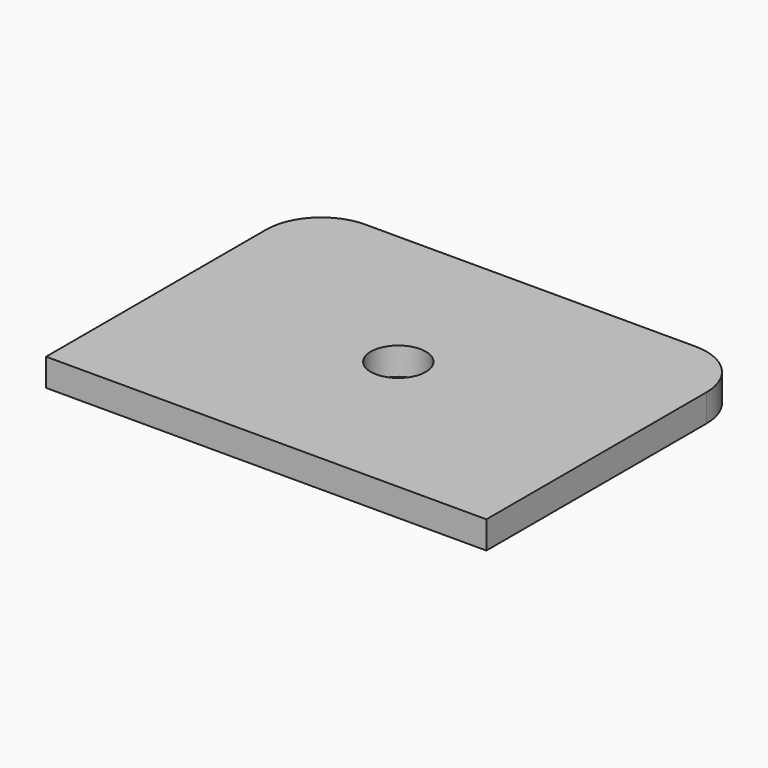
from build123d import *

# Parameters (mm, degrees)
F0_R     = 3.175
F1_DEPTH = 3.175


with BuildPart() as f1:
    # F0 (on Top) → F1 (new body)
    with BuildSketch(Plane.XY):
        with BuildLine():
            ThreePointArc((25.4, 12.7), (23.540128, 17.190128), (19.05, 19.05))
            Line((19.05, 19.05), (-19.05, 19.05))
            ThreePointArc((-19.05, 19.05), (-23.540128, 17.190128), (-25.4, 12.7))
            Line((-25.4, 12.7), (-25.4, -19.05))
            Line((-25.4, -19.05), (25.4, -19.05))
            Line((25.4, -19.05), (25.4, 12.7))
        make_face()
        Circle(F0_R, mode=Mode.SUBTRACT)
    extrude(amount=F1_DEPTH)


solid = f1.part
